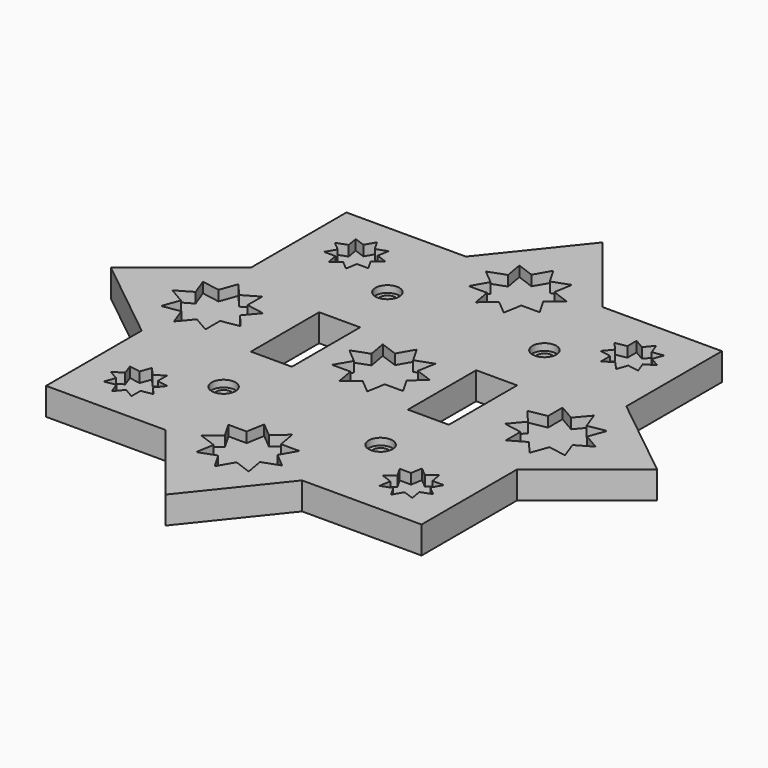
from build123d import *

# Parameters (mm, degrees)
F0_R     = 2.25
F0_W     = 12
F0_H     = 25
F1_DEPTH = 3
F3_DEPTH = 25
F4_R     = 3.5
F5_DEPTH = 2
F6_R     = 3.5
F6_W     = 12
F6_H     = 25
F7_DEPTH = 5


with BuildPart() as f1:
    # F0 (on Top) → F1 (new body)
    with BuildSketch(Plane.XY):
        Polygon((55, 20), (55, 55), (20, 55), (0, 80), (-20, 55), (-55, 55), (-55, 20), (-80, 0), (-55, -20), (-55, -55), (-20, -55), (0, -80), (20, -55), (55, -55), (55, -20), (80, 0), align=None)
        with Locations((-23, -30)):
            Circle(F0_R, mode=Mode.SUBTRACT)
        with Locations((23, -30)):
            Circle(F0_R, mode=Mode.SUBTRACT)
        with Locations((-23, 0)):
            Rectangle(F0_W, F0_H, mode=Mode.SUBTRACT)
        with Locations((-23, 30)):
            Circle(F0_R, mode=Mode.SUBTRACT)
        with Locations((23, 0)):
            Rectangle(F0_W, F0_H, mode=Mode.SUBTRACT)
        with Locations((23, 30)):
            Circle(F0_R, mode=Mode.SUBTRACT)
    extrude(amount=F1_DEPTH)

    # F2 (on face) → F3 (cut)
    with BuildSketch(Plane.XY.offset(3)):
        Polygon((-7.713451, 48.63991), (-10.392305, 44), (-5.034598, 44), (-4.104242, 38.723689), (0, 42.167556), (4.104242, 38.723689), (5.034598, 44), (10.392305, 44), (7.713451, 48.63991), (11.817693, 52.083778), (6.783095, 53.916222), (7.713451, 59.192533), (2.678854, 57.36009), (0, 62), (-2.678854, 57.36009), (-7.713451, 59.192533), (-6.783095, 53.916222), (-11.817693, 52.083778), align=None)
        Polygon((-57.36009, -2.678854), (-59.192533, -7.713451), (-53.916222, -6.783095), (-52.083778, -11.817693), (-48.63991, -7.713451), (-44, -10.392305), (-44, -5.034598), (-38.723689, -4.104242), (-42.167556, 0), (-38.723689, 4.104242), (-44, 5.034598), (-44, 10.392305), (-48.63991, 7.713451), (-52.083778, 11.817693), (-53.916222, 6.783095), (-59.192533, 7.713451), (-57.36009, 2.678854), (-62, 0), align=None)
        Polygon((2.678854, -57.36009), (7.713451, -59.192533), (6.783095, -53.916222), (11.817693, -52.083778), (7.713451, -48.63991), (10.392305, -44), (5.034598, -44), (4.104242, -38.723689), (0, -42.167556), (-4.104242, -38.723689), (-5.034598, -44), (-10.392305, -44), (-7.713451, -48.63991), (-11.817693, -52.083778), (-6.783095, -53.916222), (-7.713451, -59.192533), (-2.678854, -57.36009), (0, -62), align=None)
        Polygon((57.36009, 2.678854), (59.192533, 7.713451), (53.916222, 6.783095), (52.083778, 11.817693), (48.63991, 7.713451), (44, 10.392305), (44, 5.034598), (38.723689, 4.104242), (42.167556, 0), (38.723689, -4.104242), (44, -5.034598), (44, -10.392305), (48.63991, -7.713451), (52.083778, -11.817693), (53.916222, -6.783095), (59.192533, -7.713451), (57.36009, -2.678854), (62, 0), align=None)
        Polygon((-45.125994, 39.455031), (-46.800277, 36.555087), (-43.45171, 36.555087), (-42.870238, 33.257392), (-40.305087, 35.409809), (-37.739935, 33.257392), (-37.158463, 36.555087), (-33.809896, 36.555087), (-35.484179, 39.455031), (-32.919028, 41.607448), (-36.065652, 42.752725), (-35.484179, 46.05042), (-38.630803, 44.905143), (-40.305087, 47.805087), (-41.97937, 44.905143), (-45.125994, 46.05042), (-44.544521, 42.752725), (-47.691145, 41.607448), align=None)
        Polygon((-41.607448, -47.691145), (-39.455031, -45.125994), (-36.555087, -46.800277), (-36.555087, -43.45171), (-33.257392, -42.870238), (-35.409809, -40.305087), (-33.257392, -37.739935), (-36.555087, -37.158463), (-36.555087, -33.809896), (-39.455031, -35.484179), (-41.607448, -32.919028), (-42.752725, -36.065652), (-46.05042, -35.484179), (-44.905143, -38.630803), (-47.805087, -40.305087), (-44.905143, -41.97937), (-46.05042, -45.125994), (-42.752725, -44.544521), align=None)
        Polygon((47.691145, -41.607448), (45.125994, -39.455031), (46.800277, -36.555087), (43.45171, -36.555087), (42.870238, -33.257392), (40.305087, -35.409809), (37.739935, -33.257392), (37.158463, -36.555087), (33.809896, -36.555087), (35.484179, -39.455031), (32.919028, -41.607448), (36.065652, -42.752725), (35.484179, -46.05042), (38.630803, -44.905143), (40.305087, -47.805087), (41.97937, -44.905143), (45.125994, -46.05042), (44.544521, -42.752725), align=None)
        Polygon((41.607448, 47.691145), (39.455031, 45.125994), (36.555087, 46.800277), (36.555087, 43.45171), (33.257392, 42.870238), (35.409809, 40.305087), (33.257392, 37.739935), (36.555087, 37.158463), (36.555087, 33.809896), (39.455031, 35.484179), (41.607448, 32.919028), (42.752725, 36.065652), (46.05042, 35.484179), (44.905143, 38.630803), (47.805087, 40.305087), (44.905143, 41.97937), (46.05042, 45.125994), (42.752725, 44.544521), align=None)
        Polygon((-7.713113, -1.362009), (-10.390811, -6.002587), (-5.033104, -6.001253), (-4.101435, -11.277333), (0.00195, -7.832443), (4.107048, -11.27529), (5.036091, -5.998747), (10.393798, -5.997413), (7.71379, -1.35817), (11.817174, 2.08672), (6.78212, 3.91791), (7.711163, 9.194453), (2.677021, 7.360756), (-0.002987, 12), (-2.680685, 7.359423), (-7.715739, 9.190613), (-6.78407, 3.914533), (-11.818211, 2.080837), align=None)
    extrude(amount=-F3_DEPTH, mode=Mode.SUBTRACT)

    # F4 (on face) → F5 (cut)
    with BuildSketch(Plane.XY.offset(3)):
        with Locations((-23, 30)):
            Circle(F4_R)
        with Locations((23, 30)):
            Circle(F4_R)
        with Locations((23, -30)):
            Circle(F4_R)
        with Locations((-23, -30)):
            Circle(F4_R)
    extrude(amount=-F5_DEPTH, mode=Mode.SUBTRACT)

    # F6 (on face) → F7 (join)
    with BuildSketch(Plane(origin=(0, 0, 0), x_dir=(1, 0, 0), z_dir=(0, 0, -1))):
        Polygon((0, 80), (-20, 55), (-55, 55), (-55, 20), (-80, 0), (-55, -20), (-55, -55), (-20, -55), (0, -80), (20, -55), (55, -55), (55, -20), (80, 0), (55, 20), (55, 55), (20, 55), align=None)
        with Locations((-23, -30)):
            Circle(F6_R, mode=Mode.SUBTRACT)
        with Locations((23, -30)):
            Circle(F6_R, mode=Mode.SUBTRACT)
        with Locations((-23, 0)):
            Rectangle(F6_W, F6_H, mode=Mode.SUBTRACT)
        with Locations((-23, 30)):
            Circle(F6_R, mode=Mode.SUBTRACT)
        with Locations((23, 0)):
            Rectangle(F6_W, F6_H, mode=Mode.SUBTRACT)
        with Locations((23, 30)):
            Circle(F6_R, mode=Mode.SUBTRACT)
    extrude(amount=F7_DEPTH)


solid = f1.part
